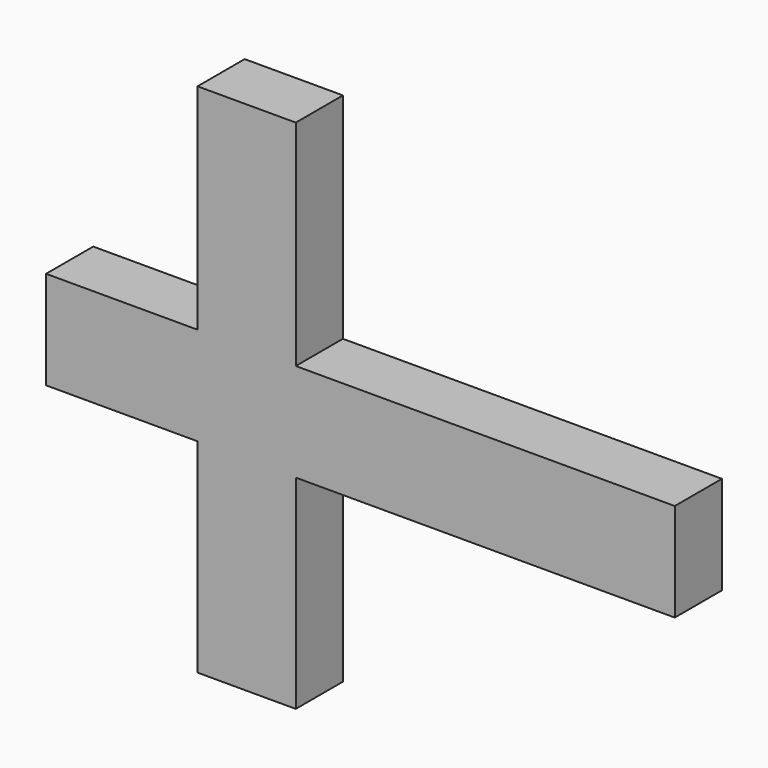
from build123d import *

# Parameters (mm, degrees)
F0_W     = 48.9535877824
F0_H     = 15.875
F0_W_2   = 15.875
F0_H_2   = 65.8211410046
F0_W_3   = 122.4964122176
F0_H_3   = 69.2617977858
F1_DEPTH = 19.05


with BuildPart() as f1:
    # F0 (on Front) → F1 (new body)
    with BuildSketch(Plane.XZ):
        with Locations((-126.7005329192, 17.3074353337)):
            Rectangle(F0_W, F0_H)
        with Locations((-126.7005329192, 1.4324353337)):
            Rectangle(F0_W, F0_H)
        with Locations((-94.286239028, 1.4324353337)):
            Rectangle(F0_W_2, F0_H)
        with Locations((-94.286239028, -39.4156351686)):
            Rectangle(F0_W_2, F0_H_2)
        with Locations((-78.411239028, -39.4156351686)):
            Rectangle(F0_W_2, F0_H_2)
        with Locations((-78.411239028, 1.4324353337)):
            Rectangle(F0_W_2, F0_H)
        with Locations((-9.2255329192, 1.4324353337)):
            Rectangle(F0_W_3, F0_H)
        with Locations((-9.2255329192, 17.3074353337)):
            Rectangle(F0_W_3, F0_H)
        with Locations((-78.411239028, 17.3074353337)):
            Rectangle(F0_W_2, F0_H)
        with Locations((-94.286239028, 17.3074353337)):
            Rectangle(F0_W_2, F0_H)
        with Locations((-78.411239028, 59.8758342266)):
            Rectangle(F0_W_2, F0_H_3)
        with Locations((-94.286239028, 59.8758342266)):
            Rectangle(F0_W_2, F0_H_3)
    extrude(amount=F1_DEPTH)


solid = f1.part
